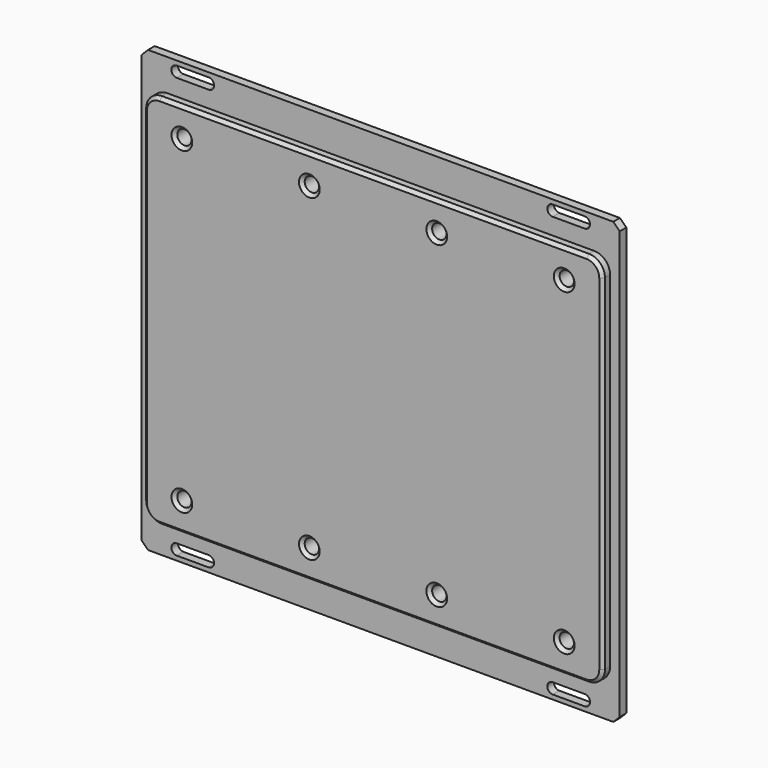
from build123d import *

# Parameters (mm, degrees)
SKETCH027_W     = 75
SKETCH027_H     = 138.2
PAD016_DEPTH    = 3
POCKET012_DEPTH = 5
CHAMFER016_SIZE = 2
SKETCH029_W     = 144
SKETCH029_H     = 118.2
PAD017_DEPTH    = 3
FILLET005_R     = 5
SKETCH030_R     = 2.25
POCKET013_DEPTH = 7
CHAMFER017_SIZE = 1
CHAMFER018_SIZE = 0.4


with BuildPart() as part:
    # Sketch027 (on XZ_Plane007 of Origin028) → Pad016 (new body)
    with BuildSketch(Plane.XZ):
        with Locations((37.5, 0)):
            Rectangle(SKETCH027_W, SKETCH027_H)
    extrude(amount=PAD016_DEPTH)

    # Sketch028 (on XZ_Plane007 of Origin028) → Pocket012 (cut)
    with BuildSketch(Plane.XZ):
        with BuildLine():
            ThreePointArc((64, 64.3), (65.7, 66), (64, 67.7))
            Line((64, 67.7), (54, 67.7))
            ThreePointArc((54, 67.7), (52.3, 66), (54, 64.3))
            Line((64, 64.3), (54, 64.3))
        make_face()
    pocket012 = extrude(amount=POCKET012_DEPTH, mode=Mode.SUBTRACT)

    # Mirrored010: Pocket012 across XY
    add(pocket012.mirror(Plane.XY), mode=Mode.SUBTRACT)

    # Mirrored011: part across YZ


with BuildPart() as part_1:
    add(part.part)
    add(part.part.mirror(Plane.YZ))

    # Chamfer016
    chamfer016_edges = [part_1.edges().sort_by_distance(p)[0] for p in [
        (-75, -1.5, -69.1),
        (75, -1.5, -69.1),
        (-75, -1.5, 69.1),
        (75, -1.5, 69.1),
    ]]
    chamfer(chamfer016_edges, length=CHAMFER016_SIZE)

    # Sketch029 (on Face5 of Chamfer016) → Pad017 (join)
    with BuildSketch(Plane.XZ.offset(3)):
        Rectangle(SKETCH029_W, SKETCH029_H)
    extrude(amount=PAD017_DEPTH)

    # Fillet005
    fillet005_edges = [part_1.edges().sort_by_distance(p)[0] for p in [
        (72, -4.5, -59.1),
        (72, -4.5, 59.1),
        (-72, -4.5, -59.1),
        (-72, -4.5, 59.1),
    ]]
    fillet(fillet005_edges, radius=FILLET005_R)

    # Sketch030 (on Face34 of Fillet005) → Pocket013 (cut)
    with BuildSketch(Plane.XZ.offset(6)):
        with Locations((-60, 50)):
            Circle(SKETCH030_R)
        with Locations((-20, 50)):
            Circle(SKETCH030_R)
        with Locations((20, 50)):
            Circle(SKETCH030_R)
        with Locations((60, 50)):
            Circle(SKETCH030_R)
        with Locations((60, -50)):
            Circle(SKETCH030_R)
        with Locations((20, -50)):
            Circle(SKETCH030_R)
        with Locations((-20, -50)):
            Circle(SKETCH030_R)
        with Locations((-60, -50)):
            Circle(SKETCH030_R)
    extrude(amount=-POCKET013_DEPTH, mode=Mode.SUBTRACT)

    # Chamfer017
    chamfer017_edges = [part_1.edges().sort_by_distance(p)[0] for p in [
        (0, -6, -59.1),
        (-70.535534, -6, -57.635534),
        (70.535534, -6, -57.635534),
        (-72, -6, 0),
        (72, -6, 0),
        (-70.535534, -6, 57.635534),
        (70.535534, -6, 57.635534),
        (0, -6, 59.1),
        (-62.25, -6, -50),
        (-22.25, -6, -50),
        (-62.25, -6, 50),
        (-22.25, -6, 50),
        (17.75, -6, -50),
        (57.75, -6, -50),
        (17.75, -6, 50),
        (57.75, -6, 50),
    ]]
    chamfer(chamfer017_edges, length=CHAMFER017_SIZE)

    # Chamfer018
    chamfer018_edges = [part_1.edges().sort_by_distance(p)[0] for p in [
        (0, 0, -69.1),
        (74, 0, -68.1),
        (-74, 0, -68.1),
        (75, 0, 0),
        (-75, 0, 0),
        (74, 0, 68.1),
        (-74, 0, 68.1),
        (0, 0, 69.1),
        (-65.7, 0, -66),
        (-59, 0, -64.3),
        (-59, 0, -67.7),
        (-52.3, 0, -66),
        (-62.25, 0, -50),
        (-22.25, 0, -50),
        (-62.25, 0, 50),
        (-59, 0, 64.3),
        (-65.7, 0, 66),
        (-52.3, 0, 66),
        (-59, 0, 67.7),
        (-22.25, 0, 50),
        (17.75, 0, -50),
        (65.7, 0, -66),
        (59, 0, -64.3),
        (59, 0, -67.7),
        (52.3, 0, -66),
        (57.75, 0, -50),
        (17.75, 0, 50),
        (57.75, 0, 50),
        (59, 0, 64.3),
        (65.7, 0, 66),
        (52.3, 0, 66),
        (59, 0, 67.7),
    ]]
    chamfer(chamfer018_edges, length=CHAMFER018_SIZE)


solid = part_1.part
